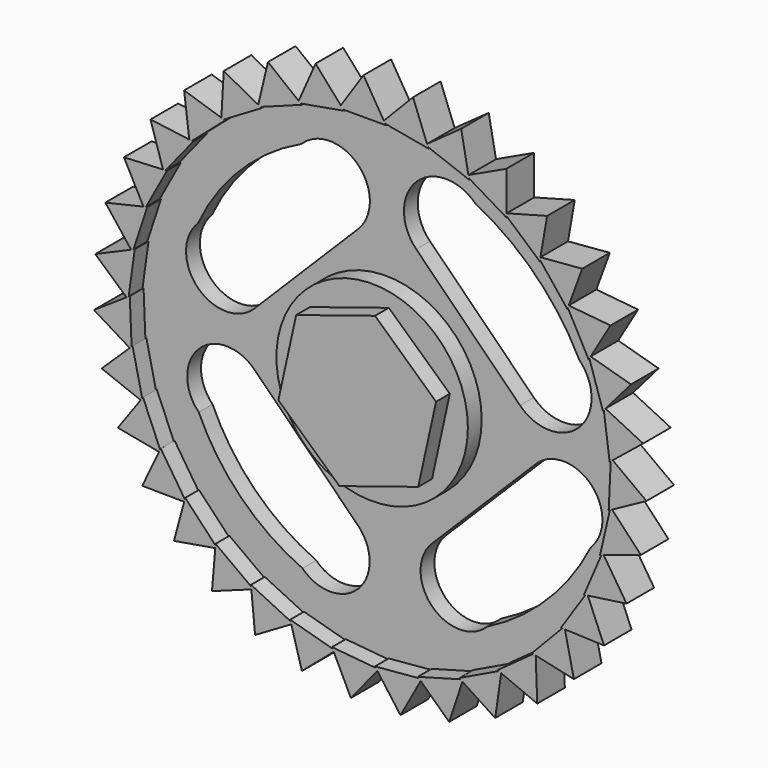
from build123d import *

# Parameters (mm, degrees)
F1_DEPTH = 7.62
F2_R     = 35.751811901
F3_DEPTH = 2.54
F5_DEPTH = 2.54
F7_DEPTH = 5.08
F8_R     = 14.1068512733
F9_DEPTH = 5.08


with BuildPart() as f1:
    # F0 (on Front) → F1 (new body)
    with BuildSketch(Plane.XZ):
        Polygon((-31.1458246259, 15.205687345), (-19.529725938, 18.8824489116), (-16.9058455143, 30.7806662514), (-25.8980637785, 39.0021220247), (-37.5141624664, 35.3253604582), (-40.1380428901, 23.4271431184), align=None)
    extrude(amount=F1_DEPTH)

    # F2 (on Front) → F3 (join)
    with BuildSketch(Plane.XZ):
        with Locations((-28.8998130709, 27.0717479289)):
            Circle(F2_R)
    extrude(amount=F3_DEPTH)

    # F4 (on Front) → F5 (cut)
    with BuildSketch(Plane.XZ):
        with BuildLine():
            ThreePointArc((0.136498175, 39.6779553324), (-6.2720598599, 48.5547382121), (-15.1488427396, 54.963296247))
            Line((-15.1488427396, 54.963296247), (0.136498175, 39.6779553324))
        make_face()
        Polygon((0.136498175, 39.6779553324), (-15.1488427396, 54.963296247), (-23.8861596634, 46.2259793232), (-8.6008187488, 30.9406384086), align=None)
        with BuildLine():
            Line((-23.8861596634, 46.2259793232), (-15.1488427396, 54.963296247))
            ThreePointArc((-15.1488427396, 54.963296247), (-23.8861596634, 54.963296247), (-23.8861596634, 46.2259793232))
        make_face()
        with BuildLine():
            ThreePointArc((-8.6008187488, 30.9406384086), (0.136498175, 30.9406384086), (0.136498175, 39.6779553324))
            Line((0.136498175, 39.6779553324), (-8.6008187488, 30.9406384086))
        make_face()
        Polygon((-32.4527176326, 7.5819144093), (-47.7380585472, 22.8672553239), (-55.9384828633, 14.6668310078), (-40.6531419486, -0.6185099068), align=None)
        with BuildLine():
            Line((-55.9384828633, 14.6668310078), (-47.7380585472, 22.8672553239))
            ThreePointArc((-47.7380585472, 22.8672553239), (-55.9384828633, 22.8672553239), (-55.9384828633, 14.6668310078))
        make_face()
        with BuildLine():
            ThreePointArc((-40.6531419486, -0.6185099068), (-32.4527176326, -0.6185099068), (-32.4527176326, 7.5819144093))
            Line((-32.4527176326, 7.5819144093), (-40.6531419486, -0.6185099068))
        make_face()
        with BuildLine():
            Line((-40.6531419486, -0.6185099068), (-55.9384828633, 14.6668310078))
            ThreePointArc((-55.9384828633, 14.6668310078), (-49.6995664224, 5.6204065341), (-40.6531419486, -0.6185099068))
        make_face()
        Polygon((-6.277241477, 24.0932026706), (-21.5625823916, 8.8078617559), (-13.4260717524, 0.6713511167), (1.8592691622, 15.9566920313), align=None)
        with BuildLine():
            Line((-13.4260717524, 0.6713511167), (-21.5625823916, 8.8078617559))
            ThreePointArc((-21.5625823916, 8.8078617559), (-21.5625823916, 0.6713511167), (-13.4260717524, 0.6713511167))
        make_face()
        with BuildLine():
            ThreePointArc((1.8592691622, 15.9566920313), (1.8592691622, 24.0932026706), (-6.277241477, 24.0932026706))
            Line((-6.277241477, 24.0932026706), (1.8592691622, 15.9566920313))
        make_face()
        with BuildLine():
            Line((1.8592691622, 15.9566920313), (-13.4260717524, 0.6713511167))
            ThreePointArc((-13.4260717524, 0.6713511167), (-4.5620264198, 7.0926466987), (1.8592691622, 15.9566920313))
        make_face()
        with BuildLine():
            ThreePointArc((-40.7901755948, 54.3955762058), (-49.7746033599, 48.0946630562), (-56.0755165095, 39.1102352912))
            Line((-56.0755165095, 39.1102352912), (-40.7901755948, 54.3955762058))
        make_face()
        Polygon((-40.7901755948, 54.3955762058), (-56.0755165095, 39.1102352912), (-47.7380585472, 30.7727773289), (-32.4527176326, 46.0581182435), align=None)
        with BuildLine():
            Line((-47.7380585472, 30.7727773289), (-56.0755165095, 39.1102352912))
            ThreePointArc((-56.0755165095, 39.1102352912), (-56.0755165095, 30.7727773289), (-47.7380585472, 30.7727773289))
        make_face()
        with BuildLine():
            ThreePointArc((-32.4527176326, 46.0581182435), (-32.4527176326, 54.3955762058), (-40.7901755948, 54.3955762058))
            Line((-40.7901755948, 54.3955762058), (-32.4527176326, 46.0581182435))
        make_face()
    extrude(amount=F5_DEPTH, mode=Mode.SUBTRACT)

    # F6 (on Front) → F7 (join)
    with BuildSketch(Plane.XZ):
        Polygon((-26.6307945742, 63.0384588845), (-29.6273678377, 67.9614022975), (-32.9767201509, 62.9580191504), (-32.6128785676, 62.5442848928), (-26.3299931133, 62.5442848928), (-26.4338378516, 62.7148870193), (-26.8679026261, 62.7937239232), align=None)
        Polygon((-32.6128785676, 62.5442848928), (-32.9767201509, 62.9580191504), (-33.2536811095, 62.5442848928), align=None)
        Polygon((-33.2536811095, 62.5442848928), (-32.9767201509, 62.9580191504), (-36.68720273, 67.1773108021), (-39.1802458442, 61.5245702247), (-38.8832878405, 61.2893965728), (-32.4992499713, 62.415074695), (-32.6128785676, 62.5442848928), align=None)
        Polygon((-22.3319153131, 67.475617559), (-26.6307945742, 63.0384588845), (-26.4338378516, 62.7148870193), (-20.0556625372, 61.5564525546), (-20.1273489222, 61.7428657446), (-20.5403384756, 61.8980015387), (-20.2633126278, 62.0964256027), align=None)
        Polygon((-26.4338378516, 62.7148870193), (-26.6307945742, 63.0384588845), (-26.8679026261, 62.7937239232), align=None)
        Polygon((-39.3177515894, 61.2127888917), (-39.1802458442, 61.5245702247), (-43.6982760118, 65.1025901487), (-45.1410380456, 59.0953297317), (-44.8068342447, 58.9170083306), (-38.7267177788, 61.165402093), (-38.8832878405, 61.2893965728), align=None)
        Polygon((-38.8832878405, 61.2893965728), (-39.1802458442, 61.5245702247), (-39.3177515894, 61.2127888917), align=None)
        Polygon((-15.2407051612, 65.6939461713), (-20.2633126278, 62.0964256027), (-20.1273489222, 61.7428657446), (-14.0588542415, 59.4632905514), (-14.0960744575, 59.6595135642), (-14.4746933262, 59.8859539276), (-14.1666680367, 60.0316791847), align=None)
        Polygon((-20.1273489222, 61.7428657446), (-20.2633126278, 62.0964256027), (-20.5403384756, 61.8980015387), align=None)
        Polygon((-45.2206147153, 58.7639945793), (-45.1410380456, 59.0953297317), (-50.2257397044, 61.8083782408), (-50.5717735015, 55.6399910435), (-50.2110830003, 55.5242626335), (-44.6306264678, 58.822989), (-44.8068342447, 58.9170083306), align=None)
        Polygon((-44.8068342447, 58.9170083306), (-45.1410380456, 59.0953297317), (-45.2206147153, 58.7639945793), align=None)
        Polygon((-8.5820262744, 62.6737458742), (-14.1666680367, 60.0316791847), (-14.0960744575, 59.6595135642), (-8.5326247982, 56.3321845094), (-8.5341806066, 56.5319002941), (-8.8662398298, 56.8223553822), (-8.5371314247, 56.9106904672), align=None)
        Polygon((-14.0960744575, 59.6595135642), (-14.1666680367, 60.0316791847), (-14.4746933262, 59.8859539276), align=None)
        Polygon((-50.5908592665, 55.2997688174), (-50.5717735015, 55.6399910435), (-56.0594537296, 57.4007263689), (-55.2976193476, 51.2697926407), (-54.9220539349, 51.2203828921), (-50.0209102037, 55.463245237), (-50.2110830003, 55.5242626335), align=None)
        Polygon((-50.2110830003, 55.5242626335), (-50.5717735015, 55.6399910435), (-50.5908592665, 55.2997688174), align=None)
        Polygon((-2.5702429706, 58.512246642), (-8.5371314247, 56.9106904672), (-8.5341806066, 56.5319002941), (-3.6548813305, 52.2639348158), (-3.6207226448, 52.4607138782), (-3.8955321666, 52.8058330063), (-3.5559357054, 52.8339341282), align=None)
        Polygon((-8.5341806066, 56.5319002941), (-8.5371314247, 56.9106904672), (-8.8662398298, 56.8223553822), align=None)
        Polygon((-55.2555997757, 50.93163619), (-55.2976193476, 51.2697926407), (-61.0116120452, 52.0215310417), (-59.1664353865, 46.1254252842), (-58.7880857223, 46.1439248558), (-54.7240383936, 51.1943317761), (-54.9220539349, 51.2203828921), align=None)
        Polygon((-54.9220539349, 51.2203828921), (-55.2976193476, 51.2697926407), (-55.2555997757, 50.93163619), align=None)
        Polygon((2.6011060846, 53.3434205372), (-3.5559357054, 52.8339341282), (-3.6207226448, 52.4607138782), (0.4173458905, 47.3895115302), (0.4861193921, 47.5770189186), (0.2774065752, 47.9656915905), (0.6165583888, 47.9326540837), align=None)
        Polygon((-3.6207226448, 52.4607138782), (-3.5559357054, 52.8339341282), (-3.8955321666, 52.8058330063), align=None)
        Polygon((-59.064663223, 45.8002209542), (-59.1664353865, 46.1254252842), (-64.9227887266, 45.8439658806), (-62.0536719701, 40.3725027268), (-61.6847183488, 40.4583160579), (-58.5886021943, 46.1536786898), (-58.7880857223, 46.1439248558), align=None)
        Polygon((-58.7880857223, 46.1439248558), (-59.1664353865, 46.1254252842), (-59.064663223, 45.8002209542), align=None)
        Polygon((6.7655385106, 47.3336687186), (0.6165583888, 47.9326540837), (0.4861193921, 47.5770189186), (3.5529587558, 41.8658380364), (3.6541330329, 42.038037284), (3.5182360586, 42.4577508747), (3.8460248354, 42.3646383229), align=None)
        Polygon((0.4861193921, 47.5770189186), (0.6165583888, 47.9326540837), (0.2774065752, 47.9656915905), align=None)
        Polygon((-61.8954235888, 40.0707198921), (-62.0536719701, 40.3725027268), (-67.6670704002, 39.0669066033), (-63.8663796545, 34.1962300732), (-63.5186998812, 34.3465945562), (-61.4901888512, 40.5035608345), (-61.6847183488, 40.4583160579), align=None)
        Polygon((-61.6847183488, 40.4583160579), (-62.0536719701, 40.3725027268), (-61.8954235888, 40.0707198921), align=None)
        Polygon((9.7889878158, 40.6764644517), (3.8460248354, 42.3646383229), (3.6541330329, 42.038037284), (5.6510117888, 35.8707391734), (5.7813297156, 36.0220866319), (5.7226235452, 36.4593292092), (6.0284967089, 36.3091392054), align=None)
        Polygon((3.6541330329, 42.038037284), (3.8460248354, 42.3646383229), (3.5182360586, 42.4577508747), align=None)
        Polygon((-63.6567495803, 33.9275840952), (-63.8663796545, 34.1962300732), (-69.1561098009, 31.9085285737), (-64.5462015414, 27.7954414309), (-64.2309885478, 28.0055163489), (-63.3353869452, 34.4258737003), (-63.5186998812, 34.3465945562), align=None)
        Polygon((-63.5186998812, 34.3465945562), (-63.8663796545, 34.1962300732), (-63.6567495803, 33.9275840952), align=None)
        Polygon((11.57411943, 33.5861245817), (6.0284967089, 36.3091392054), (5.7813297156, 36.0220866319), (6.6439619057, 29.597216481), (6.7992281284, 29.7228397883), (6.8196027025, 30.1635351055), (7.0937132109, 29.9611027495), align=None)
        Polygon((5.7813297156, 36.0220866319), (6.0284967089, 36.3091392054), (5.7226235452, 36.4593292092), align=None)
        Polygon((-64.2919384415, 27.5685808887), (-64.5462015414, 27.7954414309), (-69.3419699549, 24.5992830343), (-64.0712519748, 21.3761988003), (-63.7986534823, 21.6392211651), (-64.064793607, 28.1162776096), (-64.2309885478, 28.0055163489), align=None)
        Polygon((-64.2309885478, 28.0055163489), (-64.5462015414, 27.7954414309), (-64.2919384415, 27.5685808887), align=None)
        Polygon((12.0634642174, 26.2909099837), (7.0937132109, 29.9611027495), (6.7992281284, 29.7228397883), (6.4998428443, 23.2472348588), (6.6750588431, 23.343089796), (6.7738582387, 23.7730504515), (7.0073815916, 23.5248926929), align=None)
        Polygon((6.7992281284, 29.7228397883), (7.0937132109, 29.9611027495), (6.8196027025, 30.1635351055), align=None)
        Polygon((-63.7805413974, 21.1984270655), (-64.0712519748, 21.3761988003), (-68.2186674253, 17.3744781387), (-62.4568211109, 15.1451582751), (-62.2356129429, 15.4526605497), (-63.6549268871, 21.7778987807), (-63.7986534823, 21.6392211651), align=None)
        Polygon((-63.7986534823, 21.6392211651), (-64.0712519748, 21.3761988003), (-63.7805413974, 21.1984270655), align=None)
        Polygon((11.2412685935, 19.0256771101), (7.0073815916, 23.5248926929), (6.6750588431, 23.343089796), (5.2232942613, 17.0252206655), (5.412819269, 17.0882213535), (5.5868628152, 17.4936055291), (5.772281144, 17.2077113653), align=None)
        Polygon((6.6750588431, 23.343089796), (7.0073815916, 23.5248926929), (6.7738582387, 23.7730504515), align=None)
        Polygon((-62.1390219656, 15.0221983923), (-62.4568211109, 15.1451582751), (-65.8223649381, 10.4667036243), (-59.7548826785, 9.302917117), (-59.5921862384, 9.644999813), (-62.1189817154, 15.6147900411), (-62.2356129429, 15.4526605497), align=None)
        Polygon((-62.2356129429, 15.4526605497), (-62.4568211109, 15.1451582751), (-62.1390219656, 15.0221983923), align=None)
        Polygon((9.1340016832, 12.024317205), (5.772281144, 17.2077113653), (5.412819269, 17.0882213535), (2.8554123668, 11.1314805762), (3.053144963, 11.1595988199), (3.2968296377, 11.5273558935), (3.4281737291, 11.2129291784), align=None)
        Polygon((5.412819269, 17.0882213535), (5.772281144, 17.2077113653), (5.5868628152, 17.4936055291), align=None)
        Polygon((-59.4202259433, 9.2387275609), (-59.7548826785, 9.302917117), (-62.2302071879, 4.0983429994), (-56.0524207775, 4.0375558841), (-55.9534737876, 4.4032062577), (-59.5064051133, 9.8253617097), (-59.5921862384, 9.644999813), align=None)
        Polygon((-59.5921862384, 9.644999813), (-59.7548826785, 9.302917117), (-59.4202259433, 9.2387275609), align=None)
        Polygon((5.809503195, 5.5122265919), (3.4281737291, 11.2129291784), (3.053144963, 11.1595988199), (-0.5275730951, 5.7557530654), (-0.3279985595, 5.748083648), (-0.0225177509, 6.066374335), (0.0505237138, 5.7335374772), align=None)
        Polygon((3.053144963, 11.1595988199), (3.4281737291, 11.2129291784), (3.2968296377, 11.5273558935), align=None)
        Polygon((-55.7116801305, 4.0342031232), (-56.0524207775, 4.0375558841), (-57.5578373011, -1.525585698), (-51.4686295803, -0.4814164882), (-51.4366174629, -0.1039699001), (-55.9013043356, 4.5959941295), (-55.9534737876, 4.4032062577), align=None)
        Polygon((-55.9534737876, 4.4032062577), (-56.0524207775, 4.0375558841), (-55.7116801305, 4.0342031232), align=None)
        Polygon((1.3747994417, -0.30094956), (0.0505237138, 5.7335374772), (-0.3279985595, 5.748083648), (-4.8167529275, 1.0711001143), (-4.6217613995, 1.0278899391), (-4.264318868, 1.2864674373), (-4.2519314699, 0.945935527), align=None)
        Polygon((-0.3279985595, 5.748083648), (0.0505237138, 5.7335374772), (-0.0225177509, 6.066374335), align=None)
        Polygon((-51.1327745603, -0.4238245178), (-51.4686295803, -0.4814164882), (-51.955673912, -6.224030091), (-46.1510760879, -4.1085197258), (-46.1870294161, -3.7314281445), (-51.4197391867, 0.0950374842), (-51.4366174629, -0.1039699001), align=None)
        Polygon((-51.4366174629, -0.1039699001), (-51.4686295803, -0.4814164882), (-51.1327745603, -0.4238245178), align=None)
        Polygon((-4.0273421806, -5.2280663888), (-4.2519314699, 0.945935527), (-4.6217613995, 1.0278899391), (-9.8740446181, -2.7716642114), (-9.689913503, -2.8490240697), (-9.2920164748, -2.6584842029), (-9.3406819336, -2.9957483466), align=None)
        Polygon((-4.6217613995, 1.0278899391), (-4.2519314699, 0.945935527), (-4.264318868, 1.2864674373), align=None)
        Polygon((-45.8309189496, -3.991837095), (-46.1510760879, -4.1085197258), (-45.6040687021, -9.8457321231), (-40.2709494725, -6.7269856943), (-40.3737107929, -6.3623889121), (-46.2059856817, -3.5326079362), (-46.1870294161, -3.7314281445), align=None)
        Polygon((-46.1870294161, -3.7314281445), (-46.1510760879, -4.1085197258), (-45.8309189496, -3.991837095), align=None)
        Polygon((-10.2230093354, -9.1105041358), (-9.3406819336, -2.9957483466), (-9.689913503, -2.8490240697), (-15.5366376602, -5.6488289524), (-15.3692947315, -5.7578480308), (-14.9437527935, -5.6414798872), (-15.0519044113, -5.9646186455), align=None)
        Polygon((-9.689913503, -2.8490240697), (-9.3406819336, -2.9957483466), (-9.2920164748, -2.6584842029), align=None)
        Polygon((-39.9767971053, -6.5549687928), (-40.2709494725, -6.7269856943), (-38.7075002987, -12.2740975422), (-34.017549947, -8.2525175412), (-34.1838110418, -7.9121531029), (-40.4278913372, -6.1701565427), (-40.3737107929, -6.3623889121), align=None)
        Polygon((-40.3737107929, -6.3623889121), (-40.2709494725, -6.7269856943), (-39.9767971053, -6.5549687928), align=None)
        Polygon((-17.0127435435, -11.8232746264), (-15.0519044113, -5.9646186455), (-15.3692947315, -5.7578480308), (-21.6222349471, -7.4677689095), (-21.4770675127, -7.6049375329), (-21.0375802303, -7.5664873779), (-21.2017362582, -7.8650978734), align=None)
        Polygon((-15.3692947315, -5.7578480308), (-15.0519044113, -5.9646186455), (-14.9437527935, -5.6414798872), align=None)
        Polygon((-33.7588720629, -8.0307041471), (-34.017549947, -8.2525175412), (-31.4879914492, -13.4309494446), (-27.5921945815, -8.6360034834), (-27.8166029705, -8.3308288163), (-34.2714716185, -7.7326971514), (-34.1838110418, -7.9121531029), align=None)
        Polygon((-34.1838110418, -7.9121531029), (-34.017549947, -8.2525175412), (-33.7588720629, -8.0307041471), align=None)
        Polygon((-24.1779613942, -13.2790450421), (-21.2017362582, -7.8650978734), (-21.4770675127, -7.6049375329), (-27.9349215033, -8.1699265478), (-27.8166029705, -8.3308288163), (-27.3773188546, -8.3715344842), (-27.5921945815, -8.6360034834), align=None)
        Polygon((-21.4770675127, -7.6049375329), (-21.2017362582, -7.8650978734), (-21.0375802303, -7.5664873779), align=None)
        Polygon((-27.8166029705, -8.3308288163), (-27.5921945815, -8.6360034834), (-27.3773188546, -8.3715344842), align=None)
    extrude(amount=F7_DEPTH)

    # F8 (on Front) → F9 (join)
    with BuildSketch(Plane.XZ):
        with Locations((-28.354421258, 27.2314734757)):
            Circle(F8_R)
    extrude(amount=F9_DEPTH)


solid = f1.part
